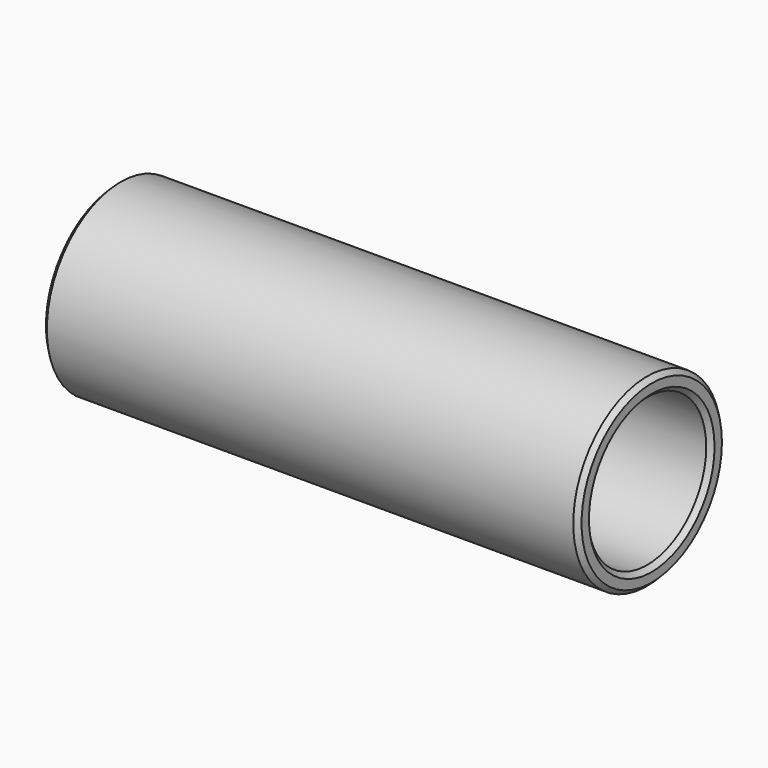
from build123d import *

# Parameters (mm, degrees)
F0_R     = 5
F0_R_2   = 4
F1_DEPTH = 29
F2_SIZE  = 0.25


with BuildPart() as f1:
    # F0 (on Right) → F1 (new body)
    with BuildSketch(Plane.YZ):
        Circle(F0_R)
        Circle(F0_R_2, mode=Mode.SUBTRACT)
    extrude(amount=F1_DEPTH)

    # F2
    f2_edges = [f1.edges().sort_by_distance(p)[0] for p in [
        (29, -5, 0),
        (0, -5, 0),
        (0, -4, 0),
        (29, -4, 0),
    ]]
    chamfer(f2_edges, length=F2_SIZE)


solid = f1.part
